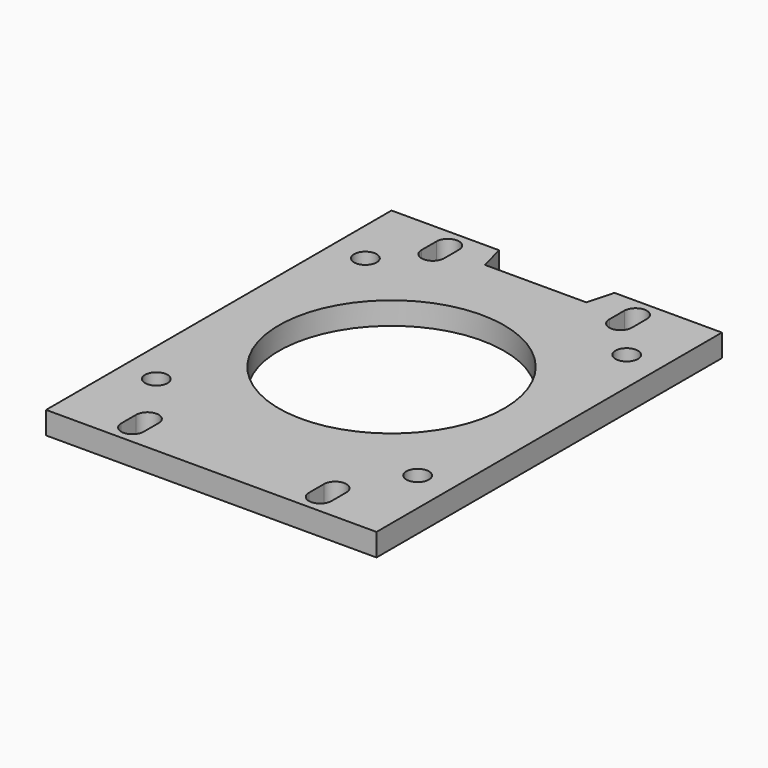
from build123d import *

# Parameters (mm, degrees)
SKETCH_R   = 30
SKETCH_R_2 = 3
PAD_DEPTH  = 6


with BuildPart() as part:
    # Sketch → Pad (new body)
    with BuildSketch(Plane.XY):
        Polygon((44, 115), (44, 0), (-44, 0), (-44, 115), (-15.375644, 115), (-13.5, 108), (13.5, 108), (15.375644, 115), align=None)
        with Locations((0, 60)):
            Circle(SKETCH_R, mode=Mode.SUBTRACT)
        with Locations((-34.8, 94.8)):
            Circle(SKETCH_R_2, mode=Mode.SUBTRACT)
        with Locations((34.8, 94.8)):
            Circle(SKETCH_R_2, mode=Mode.SUBTRACT)
        with Locations((-34.8, 25.2)):
            Circle(SKETCH_R_2, mode=Mode.SUBTRACT)
        with Locations((34.8, 25.2)):
            Circle(SKETCH_R_2, mode=Mode.SUBTRACT)
        with BuildLine():
            ThreePointArc((-22, 110), (-25, 113), (-28, 110))
            Line((-28, 110), (-28, 105))
            ThreePointArc((-28, 105), (-25, 102), (-22, 105))
            Line((-22, 110), (-22, 105))
        make_face(mode=Mode.SUBTRACT)
        with BuildLine():
            ThreePointArc((28, 110), (25, 113), (22, 110))
            Line((22, 110), (22, 105))
            ThreePointArc((22, 105), (25, 102), (28, 105))
            Line((28, 110), (28, 105))
        make_face(mode=Mode.SUBTRACT)
        with BuildLine():
            ThreePointArc((28, 10), (25, 13), (22, 10))
            Line((22, 10), (22, 5))
            ThreePointArc((22, 5), (25, 2), (28, 5))
            Line((28, 10), (28, 5))
        make_face(mode=Mode.SUBTRACT)
        with BuildLine():
            ThreePointArc((-22, 10), (-25, 13), (-28, 10))
            Line((-28, 10), (-28, 5))
            ThreePointArc((-28, 5), (-25, 2), (-22, 5))
            Line((-22, 10), (-22, 5))
        make_face(mode=Mode.SUBTRACT)
    extrude(amount=PAD_DEPTH)


solid = part.part
